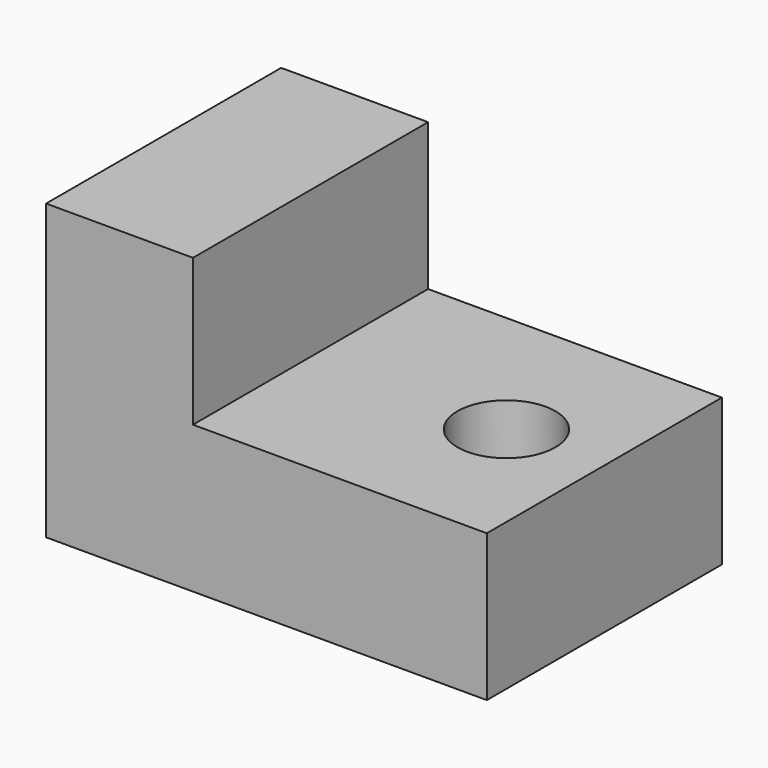
from build123d import *

# Parameters (mm, degrees)
F0_W     = 228.6
F0_H     = 152.4
F1_DEPTH = 76.2
F2_W     = 152.408811
F2_H     = 76.2
F3_DEPTH = 152.401
F5_D     = 50.8


with BuildPart() as f1:
    # F0 (on Front) → F1 (new body, symmetric)
    with BuildSketch(Plane.XZ):
        Rectangle(F0_W, F0_H)
    extrude(amount=F1_DEPTH, both=True)

    # F2 (on face) → F3 (cut, through all)
    with BuildSketch(Plane.XZ.offset(76.2)):
        with Locations((38.095595, 38.1)):
            Rectangle(F2_W, F2_H)
    extrude(amount=-F3_DEPTH, mode=Mode.SUBTRACT)

    # F5 (through all)
    with Locations(Plane.XY):
        with Locations((63.5, 0)):
            Hole(F5_D / 2)


solid = f1.part
